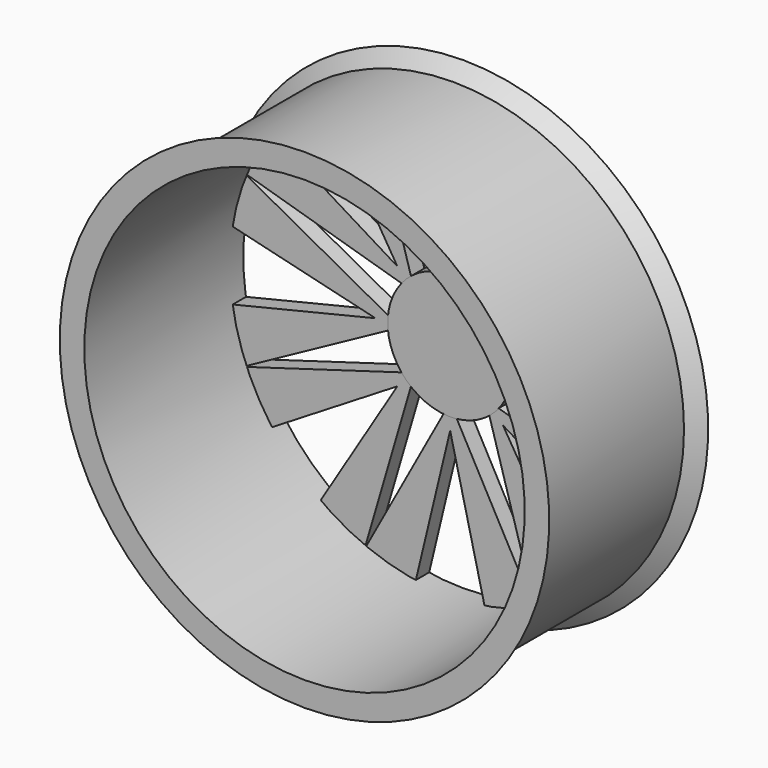
from build123d import *

# Parameters (mm, degrees)
F0_R     = 19.05
F1_DEPTH = 6.35
F3_DEPTH = 25.4
F4_R     = 23.857637564
F5_DEPTH = 6.35


with BuildPart() as f1:
    # F0 (on Front) → F1 (new body)
    with BuildSketch(Plane.XZ):
        with BuildLine():
            Line((13.4509662166, 84.484256804), (0, 28.4890606999))
            Line((0, 28.4890606999), (-13.4615930724, 84.4825641883))
            ThreePointArc((-13.4615930724, 84.4825641883), (-32.7429024117, 79.0342993993), (-50.2281214643, 69.2506603149))
            Line((-50.2281214643, 69.2506603149), (-20.1448080106, 20.1448080106))
            Line((-20.1448080106, 20.1448080106), (-69.2569777767, 50.2194102825))
            ThreePointArc((-69.2569777767, 50.2194102825), (-79.0384173826, 32.7329607205), (-84.484256804, 13.4509662166))
            Line((-84.484256804, 13.4509662166), (-28.4890606999, 0))
            Line((-28.4890606999, 0), (-84.4825641883, -13.4615930724))
            ThreePointArc((-84.4825641883, -13.4615930724), (-79.0342993993, -32.7429024117), (-69.2506603149, -50.2281214643))
            Line((-69.2506603149, -50.2281214643), (-20.1448080106, -20.1448080106))
            Line((-20.1448080106, -20.1448080106), (-50.2194102825, -69.2569777767))
            ThreePointArc((-50.2194102825, -69.2569777767), (-32.7329607205, -79.0384173826), (-13.4509662166, -84.484256804))
            Line((-13.4509662166, -84.484256804), (0, -28.4890606999))
            Line((0, -28.4890606999), (13.4615930724, -84.4825641883))
            ThreePointArc((13.4615930724, -84.4825641883), (32.7429024117, -79.0342993993), (50.2281214643, -69.2506603149))
            Line((50.2281214643, -69.2506603149), (20.1448080106, -20.1448080106))
            Line((20.1448080106, -20.1448080106), (69.2569777767, -50.2194102825))
            ThreePointArc((69.2569777767, -50.2194102825), (79.0384173826, -32.7329607205), (84.484256804, -13.4509662166))
            Line((84.484256804, -13.4509662166), (28.4890606999, 0))
            Line((28.4890606999, 0), (84.4825641883, 13.4615930724))
            ThreePointArc((84.4825641883, 13.4615930724), (79.0342993993, 32.7429024117), (69.2506603149, 50.2281214643))
            Line((69.2506603149, 50.2281214643), (20.1448080106, 20.1448080106))
            Line((20.1448080106, 20.1448080106), (50.2194102825, 69.2569777767))
            ThreePointArc((50.2194102825, 69.2569777767), (32.7329607205, 79.0384173826), (13.4509662166, 84.484256804))
        make_face()
        Circle(F0_R, mode=Mode.SUBTRACT)
    extrude(amount=F1_DEPTH)

    # F2 (on face) → F3 (cut)
    with BuildSketch(Plane.XZ.offset(6.35)):
        with BuildLine():
            Line((79.0342993993, 32.7429024117), (13.4791695573, 13.4615930724))
            ThreePointArc((13.4791695573, 13.4615930724), (17.6022822393, 7.2843778023), (19.05, 0))
            Line((19.05, 0), (79.0342993993, 32.7429024117))
        make_face()
        with BuildLine():
            Line((32.7329607205, 79.0384173826), (0, 19.05))
            ThreePointArc((0, 19.05), (7.295860195, 17.5975260765), (13.4791695573, 13.4615930724))
            Line((13.4791695573, 13.4615930724), (32.7329607205, 79.0384173826))
        make_face()
        with BuildLine():
            ThreePointArc((-13.4615930724, 13.4791695573), (-7.2843778023, 17.6022822393), (0, 19.05))
            Line((0, 19.05), (-32.7420570158, 79.0346496308))
            ThreePointArc((-32.7420570158, 79.0346496308), (-32.7424797142, 79.0344745162), (-32.7429024117, 79.0342993993))
            Line((-32.7429024117, 79.0342993993), (-13.4615930724, 13.4791695573))
        make_face()
        with BuildLine():
            ThreePointArc((-19.05, 0), (-17.5975260765, 7.295860195), (-13.4615930724, 13.4791695573))
            Line((-13.4615930724, 13.4791695573), (-79.0384173826, 32.7329607205))
            Line((-79.0384173826, 32.7329607205), (-19.05, 0))
        make_face()
        with BuildLine():
            ThreePointArc((-13.4791695573, -13.4615930724), (-17.6022822393, -7.2843778023), (-19.05, 0))
            Line((-19.05, 0), (-79.0342993993, -32.7429024117))
            Line((-79.0342993993, -32.7429024117), (-13.4791695573, -13.4615930724))
        make_face()
        with BuildLine():
            ThreePointArc((0, -19.05), (-7.295860195, -17.5975260765), (-13.4791695573, -13.4615930724))
            Line((-13.4791695573, -13.4615930724), (-32.7329607205, -79.0384173826))
            Line((-32.7329607205, -79.0384173826), (0, -19.05))
        make_face()
        with BuildLine():
            Line((32.7429024117, -79.0342993993), (13.4615930724, -13.4791695573))
            ThreePointArc((13.4615930724, -13.4791695573), (7.2843778023, -17.6022822393), (0, -19.05))
            Line((0, -19.05), (32.7429024117, -79.0342993993))
        make_face()
        with BuildLine():
            Line((79.0384173826, -32.7329607205), (19.05, 0))
            ThreePointArc((19.05, 0), (17.5975260765, -7.295860195), (13.4615930724, -13.4791695573))
            Line((13.4615930724, -13.4791695573), (79.0384173826, -32.7329607205))
        make_face()
    extrude(amount=-F3_DEPTH, mode=Mode.SUBTRACT)


with BuildPart() as f5:
    # F4 (on Front) → F5 (new body)
    with BuildSketch(Plane.XZ):
        Circle(F4_R)
    extrude(amount=F5_DEPTH)


with BuildPart() as f8:
    # F6 (on Right) → F8 (revolve)
    with BuildSketch(Plane.YZ):
        Polygon((0, 84.0539722534), (0, 93.4131159278), (-4.8862942494, 88.0876552102), (-71.0415691137, 88.0876552102), (-75.8310928941, 93.4011722534), (-75.8310928941, 84.0539722534), align=None)
    revolve(axis=Axis((0, 40.0305017829, 0), (0, 1, 0)))


solid = Compound([f1.part, f5.part, f8.part])
